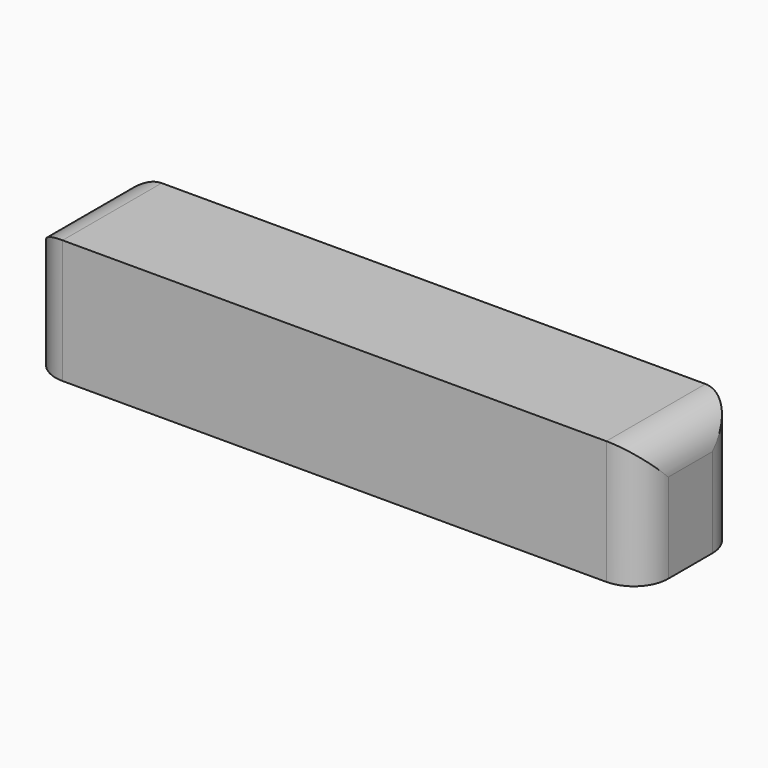
from build123d import *

# Parameters (mm, degrees)
F0_W     = 89
F0_H     = 18
F1_DEPTH = 18
F2_R     = 5


with BuildPart() as f1:
    # F0 (on Top) → F1 (new body)
    with BuildSketch(Plane.XY):
        with Locations((44.5, 9)):
            Rectangle(F0_W, F0_H)
    extrude(amount=F1_DEPTH)

    # F2
    f2_edges = [f1.edges().sort_by_distance(p)[0] for p in [
        (0, 0, 9),
        (89, 0, 9),
        (89, 18, 9),
        (0, 18, 9),
        (0, 9, 18),
        (89, 9, 18),
    ]]
    fillet(f2_edges, radius=F2_R)


solid = f1.part
